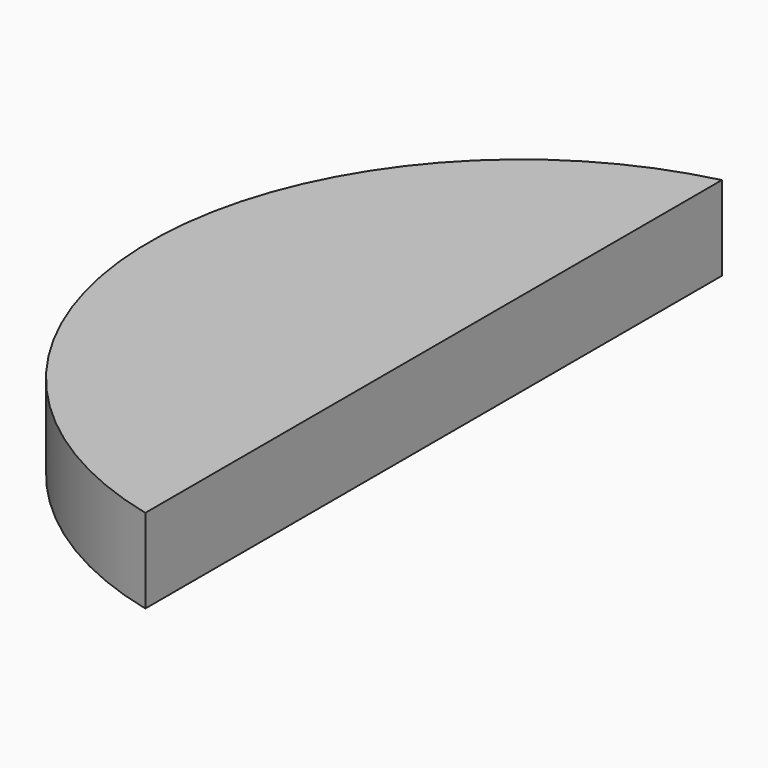
from build123d import *

# Parameters (mm, degrees)
F1_DEPTH = 75


with BuildPart() as f1:
    # F0 (on Top) → F1 (new body, symmetric)
    with BuildSketch(Plane.XY):
        with BuildLine():
            Line((-155, -641.541113), (-155, 641.541113))
            ThreePointArc((-155, 641.541113), (-660, 0), (-155, -641.541113))
        make_face()
    extrude(amount=F1_DEPTH, both=True)


solid = f1.part
